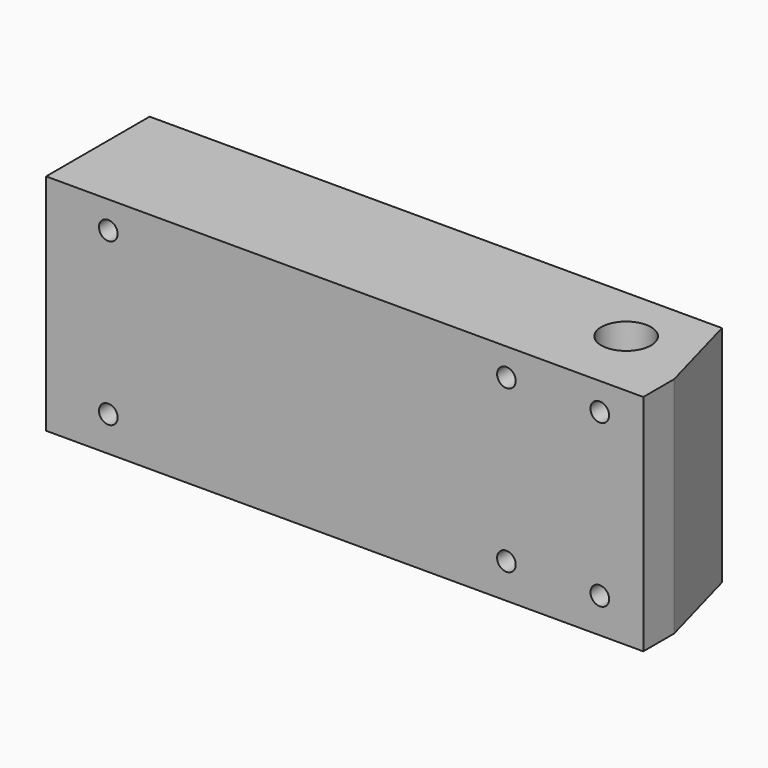
from build123d import *

# Parameters (mm, degrees)
F0_R     = 6.35
F1_DEPTH = 57.15
F3_DEPTH = 12.7


with BuildPart() as f1:
    # F0 (on Top) → F1 (new body)
    with BuildSketch(Plane.XY):
        Polygon((0, 33.02), (0, 0), (152.4, 0), (152.4, 9.8425), (146.05, 33.02), align=None)
        with Locations((133.35, 18.3388)):
            Circle(F0_R, mode=Mode.SUBTRACT)
    extrude(amount=F1_DEPTH)

    # F2 (on face) → F3 (cut)
    with BuildSketch(Plane.XZ):
        with BuildLine():
            ThreePointArc((143.68145, 8.89), (142.9839980227, 10.5737980227), (141.3002, 11.27125))
            Line((141.3002, 11.27125), (141.3002, 8.89))
            Line((141.3002, 8.89), (138.91895, 8.89))
            ThreePointArc((138.91895, 8.89), (141.3002, 6.50875), (143.68145, 8.89))
        make_face()
        with BuildLine():
            Line((141.3002, 8.89), (141.3002, 11.27125))
            ThreePointArc((141.3002, 11.27125), (139.6164019773, 10.5737980227), (138.91895, 8.89))
            Line((138.91895, 8.89), (141.3002, 8.89))
        make_face()
        with BuildLine():
            Line((141.3002, 50.165), (138.91895, 50.165))
            ThreePointArc((138.91895, 50.165), (139.6164019773, 48.4812019773), (141.3002, 47.78375))
            Line((141.3002, 47.78375), (141.3002, 50.165))
        make_face()
        with BuildLine():
            ThreePointArc((143.68145, 50.165), (141.3002, 52.54625), (138.91895, 50.165))
            Line((138.91895, 50.165), (141.3002, 50.165))
            Line((141.3002, 50.165), (141.3002, 47.78375))
            ThreePointArc((141.3002, 47.78375), (142.9839980227, 48.4812019773), (143.68145, 50.165))
        make_face()
        with BuildLine():
            ThreePointArc((119.85625, 8.89), (119.1587980227, 10.5737980227), (117.475, 11.27125))
            Line((117.475, 11.27125), (117.475, 8.89))
            Line((117.475, 8.89), (119.85625, 8.89))
        make_face()
        with BuildLine():
            ThreePointArc((115.09375, 8.89), (117.475, 6.50875), (119.85625, 8.89))
            Line((119.85625, 8.89), (117.475, 8.89))
            Line((117.475, 8.89), (115.09375, 8.89))
        make_face()
        with BuildLine():
            Line((117.475, 50.165), (115.09375, 50.165))
            ThreePointArc((115.09375, 50.165), (115.7912019773, 48.4812019773), (117.475, 47.78375))
            Line((117.475, 47.78375), (117.475, 50.165))
        make_face()
        with BuildLine():
            Line((117.475, 50.165), (119.85625, 50.165))
            ThreePointArc((119.85625, 50.165), (117.475, 52.54625), (115.09375, 50.165))
            Line((115.09375, 50.165), (117.475, 50.165))
        make_face()
        with BuildLine():
            ThreePointArc((117.475, 47.78375), (119.1587980227, 48.4812019773), (119.85625, 50.165))
            Line((119.85625, 50.165), (117.475, 50.165))
            Line((117.475, 50.165), (117.475, 47.78375))
        make_face()
        with BuildLine():
            Line((15.875, 8.89), (18.25625, 8.89))
            ThreePointArc((18.25625, 8.89), (17.5587980227, 10.5737980227), (15.875, 11.27125))
            Line((15.875, 11.27125), (15.875, 8.89))
        make_face()
        with BuildLine():
            ThreePointArc((15.875, 11.27125), (14.1912019773, 7.2062019773), (18.25625, 8.89))
            Line((18.25625, 8.89), (15.875, 8.89))
            Line((15.875, 8.89), (15.875, 11.27125))
        make_face()
        with BuildLine():
            ThreePointArc((15.875, 47.78375), (17.5587980227, 48.4812019773), (18.25625, 50.165))
            Line((18.25625, 50.165), (15.875, 50.165))
            Line((15.875, 50.165), (15.875, 47.78375))
        make_face()
        with BuildLine():
            Line((15.875, 50.165), (18.25625, 50.165))
            ThreePointArc((18.25625, 50.165), (14.1912019773, 51.8487980227), (15.875, 47.78375))
            Line((15.875, 47.78375), (15.875, 50.165))
        make_face()
        with BuildLine():
            Line((117.475, 8.89), (117.475, 11.27125))
            ThreePointArc((117.475, 11.27125), (115.7912019773, 10.5737980227), (115.09375, 8.89))
            Line((115.09375, 8.89), (117.475, 8.89))
        make_face()
    extrude(amount=-F3_DEPTH, mode=Mode.SUBTRACT)


solid = f1.part
